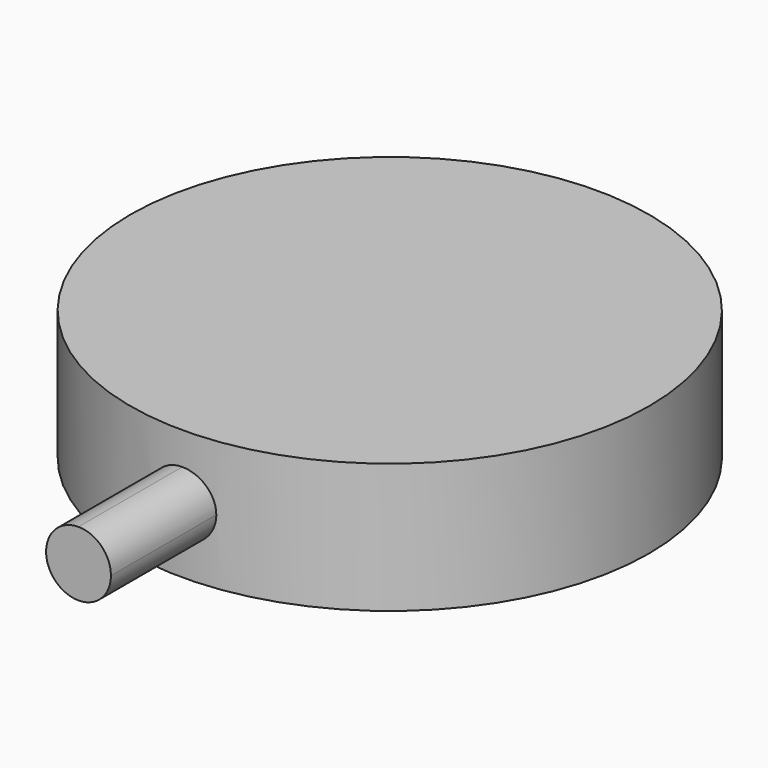
from build123d import *

# Parameters (mm, degrees)
F2_R     = 20
F3_DEPTH = 10
F5_DEPTH = 30


with BuildPart() as f3:
    # F2 (on Top) → F3 (new body)
    with BuildSketch(Plane.XY):
        Circle(F2_R)
    extrude(amount=F3_DEPTH)

    # F4 (on Front) → F5 (join)
    with BuildSketch(Plane.XZ):
        with BuildLine():
            ThreePointArc((0, 7.5), (-2.5, 5), (0, 2.5))
            Line((0, 2.5), (0, 7.5))
        make_face()
        with BuildLine():
            Line((0, 7.5), (0, 2.5))
            ThreePointArc((0, 2.5), (1.767766953, 3.232233047), (2.5, 5))
            ThreePointArc((2.5, 5), (1.767766953, 6.767766953), (0, 7.5))
        make_face()
    extrude(amount=F5_DEPTH)


solid = f3.part
